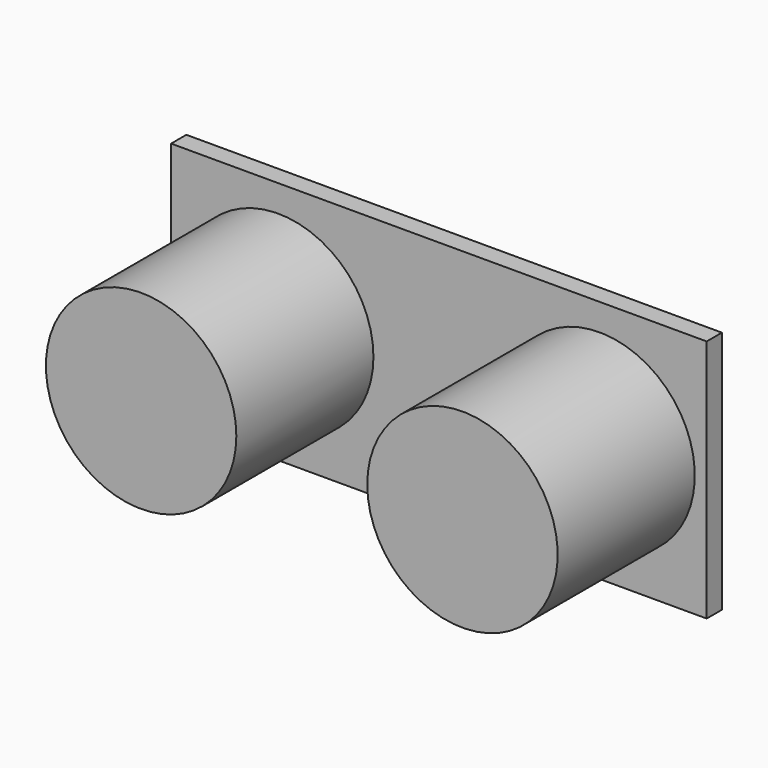
from build123d import *

# Parameters (mm, degrees)
F0_W     = 45
F0_H     = 20.5
F1_DEPTH = 1.6
F2_R     = 8
F3_DEPTH = 16


with BuildPart() as f1:
    # F0 (on Front) → F1 (new body)
    with BuildSketch(Plane.XZ):
        Rectangle(F0_W, F0_H)
    extrude(amount=F1_DEPTH)

    # F2 (on Front) → F3 (join)
    with BuildSketch(Plane.XZ):
        with Locations((-13.5, 0)):
            Circle(F2_R)
        with BuildLine():
            ThreePointArc((21.5, 0), (13.5, 8), (5.5, 0))
            ThreePointArc((5.5, 0), (13.5, -8), (21.5, 0))
        make_face()
    extrude(amount=F3_DEPTH)


solid = f1.part
